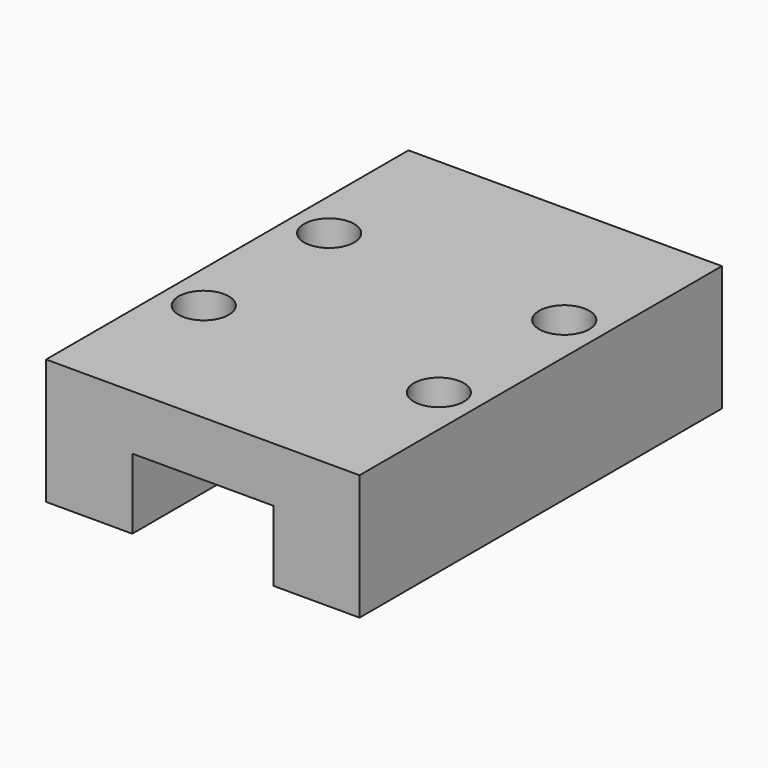
from build123d import *

# Parameters (mm, degrees)
F0_W     = 20
F0_H     = 28.9
F1_DEPTH = 8
F2_W     = 9
F2_H     = 4.5
F3_DEPTH = 28.901
F5_D     = 3.2
F5_DEPTH = 4
F5_TIP   = 0.9613769904


with BuildPart() as f1:
    # F0 (on Top) → F1 (new body)
    with BuildSketch(Plane.XY):
        with Locations((10, 14.45)):
            Rectangle(F0_W, F0_H)
    extrude(amount=F1_DEPTH)

    # F2 (on face) → F3 (cut, through all)
    with BuildSketch(Plane.XZ):
        with Locations((10, 2.25)):
            Rectangle(F2_W, F2_H)
    extrude(amount=-F3_DEPTH, mode=Mode.SUBTRACT)

    # F5
    with Locations(Plane.XY.offset(8)):
        with Locations((2.5, 9.45), (2.5, 19.45), (17.5, 19.45), (17.5, 9.45)):
            Hole(F5_D / 2, depth=F5_DEPTH)
            with Locations((0, 0, -(F5_DEPTH + F5_TIP / 2))):  # 118° drill point
                Cone(0, F5_D / 2, F5_TIP, mode=Mode.SUBTRACT)


solid = f1.part
